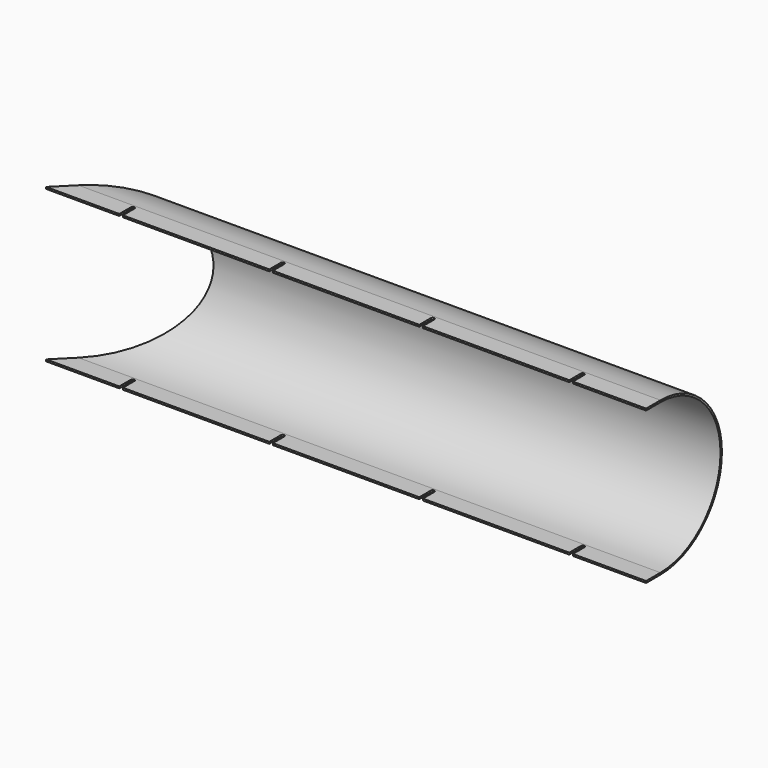
from build123d import *

# Parameters (mm, degrees)
F1_DEPTH = 2000
F3_DEPTH = 550
F5_DEPTH = 512.001


with BuildPart() as f1:
    # F0 (on Right) → F1 (new body)
    with BuildSketch(Plane.YZ):
        with BuildLine():
            ThreePointArc((0, 250), (250, 0), (0, -250))
            Line((0, -250), (-60, -250))
            Line((-60, -250), (-60, -256))
            Line((-60, -256), (0, -256))
            ThreePointArc((0, -256), (256, 0), (0, 256))
            Line((0, 256), (-60, 256))
            Line((-60, 256), (-60, 250))
            Line((-60, 250), (0, 250))
        make_face()
    extrude(amount=F1_DEPTH)

    # F2 (on face) → F3 (cut)
    with BuildSketch(Plane.XY.offset(256)):
        Polygon((0, 0), (60, 0), (316, 256), (0, 256), align=None)
        Polygon((0, 0), (0, -60), (60, 0), align=None)
    extrude(amount=-F3_DEPTH, mode=Mode.SUBTRACT)

    # F4 (on face) → F5 (cut, through all)
    with BuildSketch(Plane.XY.offset(256)):
        with BuildLine():
            Line((244, -12), (244, -60))
            Line((244, -60), (256, -60))
            Line((256, -60), (256, -12))
            ThreePointArc((256, -12), (250, -6), (244, -12))
        make_face()
        with BuildLine():
            Line((744, -12), (744, -60))
            Line((744, -60), (756, -60))
            Line((756, -60), (756, -12))
            ThreePointArc((756, -12), (750, -6), (744, -12))
        make_face()
        with BuildLine():
            Line((1244, -12), (1244, -60))
            Line((1244, -60), (1256, -60))
            Line((1256, -60), (1256, -12))
            ThreePointArc((1256, -12), (1250, -6), (1244, -12))
        make_face()
        with BuildLine():
            Line((1744, -60), (1756, -60))
            Line((1756, -60), (1756, -12))
            ThreePointArc((1756, -12), (1750, -6), (1744, -12))
            Line((1744, -12), (1744, -60))
        make_face()
    extrude(amount=-F5_DEPTH, mode=Mode.SUBTRACT)


solid = f1.part
